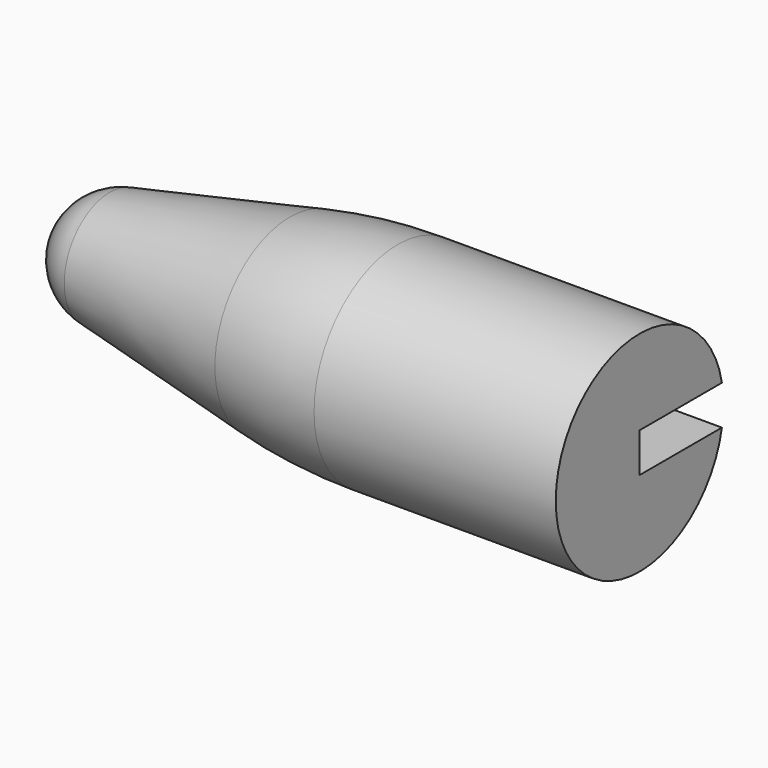
from build123d import *

# Parameters (mm, degrees)
SKETCH001_W  = 85.039572
SKETCH001_H  = 4.2
POCKET_DEPTH = 20


with BuildPart() as part:
    # CopyCopySketch004 → Revolution (revolve)
    with BuildSketch(Plane.XY):
        with BuildLine():
            Line((-94.174597, 6.067109), (-74.992641, 9.993074))
            ThreePointArc((-63.502188, 11.156884), (-69.276809, 10.865189), (-74.992641, 9.993074))
            Line((-63.502188, 11.156884), (-49.076412, 11.156884))
            Line((-49.076412, 11.156884), (-37.765572, 11.156884))
            Line((-37.765572, 11.156884), (-37.765572, 0))
            Line((-37.765572, 0), (-99.398118, 0))
            ThreePointArc((-94.174597, 6.067109), (-97.822196, 3.925367), (-99.398118, 0))
        make_face()
    revolve(axis=Axis((0, 0, 0), (1, 0, 0)))

    # Sketch001 → Pocket (cut)
    with BuildSketch(Plane.XZ):
        with Locations((-60.179326, 0)):
            Rectangle(SKETCH001_W, SKETCH001_H)
    extrude(amount=-POCKET_DEPTH, mode=Mode.SUBTRACT)


solid = part.part
